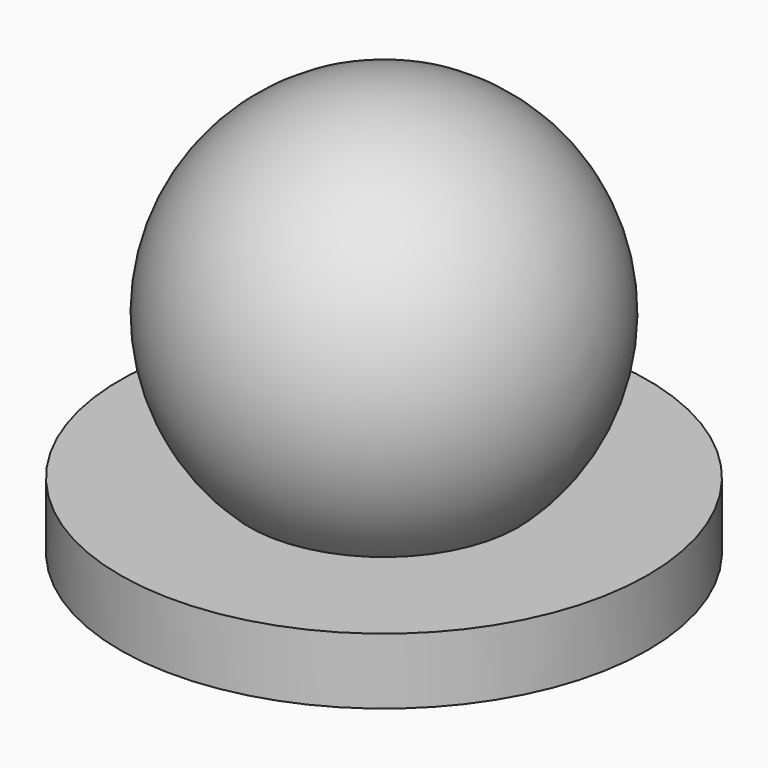
from build123d import *

# Parameters (mm, degrees)
CYLINDER_R        = 20
CYLINDER_DEPTH    = 40
CYLINDER001_R     = 40
CYLINDER001_DEPTH = 10


with BuildPart() as cylinder:
    # Cylinder → Cylinder (new body)
    with BuildSketch(Plane.XY.offset(-22)):
        Circle(CYLINDER_R)
    extrude(amount=CYLINDER_DEPTH)


with BuildPart() as cut:
    # Sphere → Sphere (revolve)
    with BuildSketch(Plane(origin=(0, 0, 30), x_dir=(1, 0, 0), z_dir=(0, -1, 0))):
        with BuildLine():
            ThreePointArc((0, -30), (30, 0), (0, 30))
            Line((0, 30), (0, -30))
        make_face()
    revolve(axis=Axis((0, 0, 30), (0, 0, 1)))

    # Cut: cut Cylinder
    add(cylinder.part, mode=Mode.SUBTRACT)


with BuildPart() as cylinder001:
    # Cylinder001 → Cylinder001 (new body)
    with BuildSketch(Plane.XY.offset(-2)):
        Circle(CYLINDER001_R)
    extrude(amount=CYLINDER001_DEPTH)


solid = Compound([cut.part, cylinder001.part])
